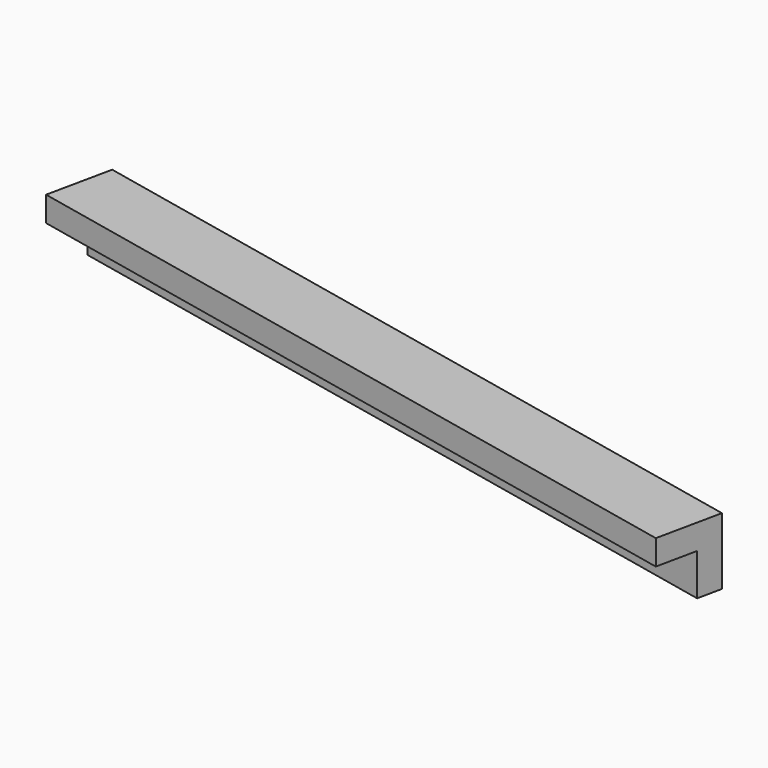
from build123d import *

# Parameters (mm, degrees)
BOX115_W               = 0.8
BOX115_H               = 11
BOX115_DEPTH           = 0.8
BOX116_W               = 0.8
BOX116_H               = 9
BOX116_DEPTH           = 0.8
CUT061_PLACEMENT_ANGLE = 78


with BuildPart() as cubo115:
    # Box115 → Box115 (new body)
    with BuildSketch(Plane.XY):
        with Locations((0.4, 5.5)):
            Rectangle(BOX115_W, BOX115_H)
    extrude(amount=BOX115_DEPTH)


with BuildPart() as obj1:
    # Box116 → Box116 (new body)
    with BuildSketch(Plane(origin=(0.3, 0, 0.3), x_dir=(1, 0, 0), z_dir=(0, 0, 1))):
        with Locations((0.4, 4.5)):
            Rectangle(BOX116_W, BOX116_H)
    extrude(amount=BOX116_DEPTH)

    # Cut061: cut Cubo115
    add(cubo115.part, mode=Mode.SUBTRACT)


with BuildPart() as obj1_1:
    # Cut061 placement: moved
    add(obj1.part.moved(Location((-211, 45, -1.45))).rotate(Axis((-211, 45, -1.45), (0, 0, 1)), CUT061_PLACEMENT_ANGLE))


solid = obj1_1.part
